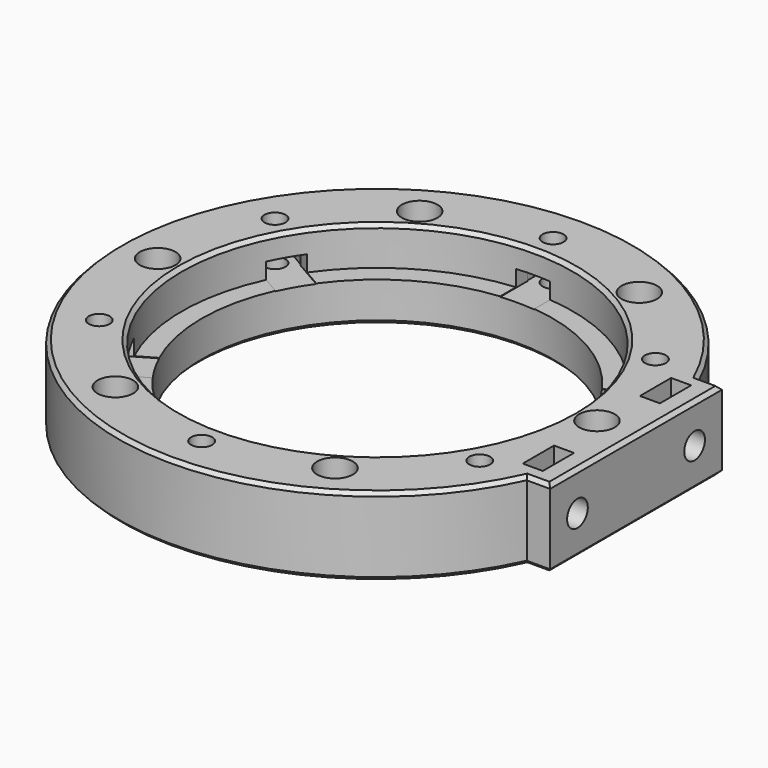
from build123d import *

# Parameters (mm, degrees)
CYLINDER014005872_R                            = 40.05
CYLINDER014005872_DEPTH                        = 16
CYLINDER014005874_R                            = 3.65
CYLINDER014005874_DEPTH                        = 4
CYLINDER014005873_R                            = 2.15
CYLINDER014005873_DEPTH                        = 24
FUSION001089102007007003001_PLACEMENT_ANGLE    = 60
FUSION001089102007007003002_PLACEMENT_ANGLE    = 120
FUSION001089102007007003003_PLACEMENT_ANGLE    = 180
FUSION001089102007007003004_PLACEMENT_ANGLE    = 240
FUSION001089102007007003005_PLACEMENT_ANGLE    = 60
BOX002_W                                       = 7
BOX002_H                                       = 10
BOX002_DEPTH                                   = 3.4
PRISM003_DEPTH                                 = 3.4
CYLINDER014005875_R                            = 2.15
CYLINDER014005875_DEPTH                        = 16
FUSION001089102007007003008001_PLACEMENT_ANGLE = 60
FUSION001089102007007003008002_PLACEMENT_ANGLE = 120
FUSION001089102007007003008003_PLACEMENT_ANGLE = 180
FUSION001089102007007003008004_PLACEMENT_ANGLE = 240
FUSION001089102007007003008005_PLACEMENT_ANGLE = 60
BOX003_W                                       = 4.1
BOX003_H                                       = 8
BOX003_DEPTH                                   = 10
CYLINDER014005876_R                            = 2.65
CYLINDER014005876_DEPTH                        = 14
PRISM004_DEPTH                                 = 4.2
BOX004_W                                       = 4.1
BOX004_H                                       = 8
BOX004_DEPTH                                   = 10
CYLINDER014005877_R                            = 2.65
CYLINDER014005877_DEPTH                        = 14
PRISM005_DEPTH                                 = 4.2
CYLINDER014005871_R                            = 36
CYLINDER014005871_DEPTH                        = 16
BOX_W                                          = 10
BOX_H                                          = 44
BOX_DEPTH                                      = 16
CYLINDER014005870_R                            = 53
CYLINDER014005870_DEPTH                        = 16
CHAMFER012_SIZE                                = 0.75


with BuildPart() as obj1:
    # Cylinder014005872 → Cylinder014005872 (new body)
    with BuildSketch(Plane.XY.offset(0.1)):
        Circle(CYLINDER014005872_R)
    extrude(amount=CYLINDER014005872_DEPTH)


with BuildPart() as obj2:
    # Cylinder014005874 → Cylinder014005874 (new body)
    with BuildSketch(Plane(origin=(45, 0, 4), x_dir=(1, 0, 0), z_dir=(0, 0, 1))):
        Circle(CYLINDER014005874_R)
    extrude(amount=CYLINDER014005874_DEPTH)


with BuildPart() as obj3:
    # Cylinder014005873 → Cylinder014005873 (new body)
    with BuildSketch(Plane(origin=(45, 0, -16), x_dir=(1, 0, 0), z_dir=(0, 0, 1))):
        Circle(CYLINDER014005873_R)
    extrude(amount=CYLINDER014005873_DEPTH)

    # Fusion001089102007007003: union obj2
    add(obj2.part)


with BuildPart() as obj4:
    # Fusion001089102007007003001 base: copy of obj3
    add(obj3.part)


with BuildPart() as obj4_1:
    # Fusion001089102007007003001 placement: moved
    add(obj4.part.rotate(Axis((0, 0, 0), (0, 0, 1)), FUSION001089102007007003001_PLACEMENT_ANGLE))


with BuildPart() as obj5:
    # Fusion001089102007007003002 base: copy of obj3
    add(obj3.part)


with BuildPart() as obj5_1:
    # Fusion001089102007007003002 placement: moved
    add(obj5.part.rotate(Axis((0, 0, 0), (0, 0, 1)), FUSION001089102007007003002_PLACEMENT_ANGLE))


with BuildPart() as obj6:
    # Fusion001089102007007003003 base: copy of obj3
    add(obj3.part)


with BuildPart() as obj6_1:
    # Fusion001089102007007003003 placement: moved
    add(obj6.part.rotate(Axis((0, 0, 0), (0, 0, 1)), FUSION001089102007007003003_PLACEMENT_ANGLE))


with BuildPart() as obj7:
    # Fusion001089102007007003004 base: copy of obj3
    add(obj3.part)


with BuildPart() as obj7_1:
    # Fusion001089102007007003004 placement: moved
    add(obj7.part.rotate(Axis((0, 0, 0), (0, 0, 1)), FUSION001089102007007003004_PLACEMENT_ANGLE))


with BuildPart() as obj8:
    # Fusion001089102007007003005 base: copy of obj3
    add(obj3.part)


with BuildPart() as obj8_1:
    # Fusion001089102007007003005 placement: moved
    add(obj8.part.rotate(Axis((0, 0, 0), (0, 0, -1)), FUSION001089102007007003005_PLACEMENT_ANGLE))


with BuildPart() as fusion001089102007007003006:
    # Fusion001089102007007003006 base: copy of obj3
    add(obj3.part)

    # Fusion001089102007007003006: union obj4, obj5, obj6, obj7, obj8
    add(obj4_1.part)
    add(obj5_1.part)
    add(obj6_1.part)
    add(obj7_1.part)
    add(obj8_1.part)


with BuildPart() as krychle002:
    # Box002 → Box002 (new body)
    with BuildSketch(Plane(origin=(-3.5, 0, 0), x_dir=(1, 0, 0), z_dir=(0, 0, 1))):
        with Locations((3.5, 5)):
            Rectangle(BOX002_W, BOX002_H)
    extrude(amount=BOX002_DEPTH)


with BuildPart() as m4x003:
    # prism003 → prism003 (new body)
    with BuildSketch(Plane(origin=(0, 0, 0), x_dir=(0, 1, 0), z_dir=(0, 0, 1))):
        Polygon((4.21, 0), (2.105, 3.645967), (-2.105, 3.645967), (-4.21, 0), (-2.105, -3.645967), (2.105, -3.645967), align=None)
    extrude(amount=PRISM003_DEPTH)


with BuildPart() as m4nut:
    # Cylinder014005875 → Cylinder014005875 (new body)
    with BuildSketch(Plane.XY.offset(-8)):
        Circle(CYLINDER014005875_R)
    extrude(amount=CYLINDER014005875_DEPTH)

    # Fusion001089102007007003008: union Krychle002, M4X003
    add(krychle002.part)
    add(m4x003.part)


with BuildPart() as m4nut_1:
    # Fusion001089102007007003008 placement: moved
    add(m4nut.part.moved(Location((0, -45, 0))))


with BuildPart() as m4nut001:
    # Fusion001089102007007003008001 base: copy of M4nut
    add(m4nut_1.part)


with BuildPart() as m4nut001_1:
    # Fusion001089102007007003008001 placement: moved
    add(m4nut001.part.rotate(Axis((0, 0, 0), (0, 0, 1)), FUSION001089102007007003008001_PLACEMENT_ANGLE))


with BuildPart() as m4nut002:
    # Fusion001089102007007003008002 base: copy of M4nut
    add(m4nut_1.part)


with BuildPart() as m4nut002_1:
    # Fusion001089102007007003008002 placement: moved
    add(m4nut002.part.rotate(Axis((0, 0, 0), (0, 0, 1)), FUSION001089102007007003008002_PLACEMENT_ANGLE))


with BuildPart() as m4nut003:
    # Fusion001089102007007003008003 base: copy of M4nut
    add(m4nut_1.part)


with BuildPart() as m4nut003_1:
    # Fusion001089102007007003008003 placement: moved
    add(m4nut003.part.rotate(Axis((0, 0, 0), (0, 0, 1)), FUSION001089102007007003008003_PLACEMENT_ANGLE))


with BuildPart() as m4nut004:
    # Fusion001089102007007003008004 base: copy of M4nut
    add(m4nut_1.part)


with BuildPart() as m4nut004_1:
    # Fusion001089102007007003008004 placement: moved
    add(m4nut004.part.rotate(Axis((0, 0, 0), (0, 0, 1)), FUSION001089102007007003008004_PLACEMENT_ANGLE))


with BuildPart() as m4nut005:
    # Fusion001089102007007003008005 base: copy of M4nut
    add(m4nut_1.part)


with BuildPart() as m4nut005_1:
    # Fusion001089102007007003008005 placement: moved
    add(m4nut005.part.rotate(Axis((0, 0, 0), (0, 0, -1)), FUSION001089102007007003008005_PLACEMENT_ANGLE))


with BuildPart() as fusion001089102007007003008006:
    # Fusion001089102007007003008006 base: copy of M4nut
    add(m4nut_1.part)

    # Fusion001089102007007003008006: union M4nut001, M4nut002, M4nut003, M4nut004, M4nut005
    add(m4nut001_1.part)
    add(m4nut002_1.part)
    add(m4nut003_1.part)
    add(m4nut004_1.part)
    add(m4nut005_1.part)


with BuildPart() as krychle003:
    # Box003 → Box003 (new body)
    with BuildSketch(Plane(origin=(0, -4, 0), x_dir=(1, 0, 0), z_dir=(0, 0, 1))):
        with Locations((2.05, 4)):
            Rectangle(BOX003_W, BOX003_H)
    extrude(amount=BOX003_DEPTH)


with BuildPart() as obj9:
    # Cylinder014005876 → Cylinder014005876 (new body)
    with BuildSketch(Plane(origin=(-4, 0, 0), x_dir=(0, 0, -1), z_dir=(1, 0, 0))):
        Circle(CYLINDER014005876_R)
    extrude(amount=CYLINDER014005876_DEPTH)


with BuildPart() as m5:
    # prism004 → prism004 (new body)
    with BuildSketch(Plane(origin=(0, 0, 0), x_dir=(0, 0, -1), z_dir=(1, 0, 0))):
        Polygon((4.6, 0), (2.3, 3.983717), (-2.3, 3.983717), (-4.6, 0), (-2.3, -3.983717), (2.3, -3.983717), align=None)
    extrude(amount=PRISM004_DEPTH)

    # Fusion001089102007007003008007: union Krychle003, obj9
    add(krychle003.part)
    add(obj9.part)


with BuildPart() as m5_1:
    # Fusion001089102007007003008007 placement: moved
    add(m5.part.moved(Location((45, 15, 0))))


with BuildPart() as krychle004:
    # Box004 → Box004 (new body)
    with BuildSketch(Plane(origin=(0, -4, 0), x_dir=(1, 0, 0), z_dir=(0, 0, 1))):
        with Locations((2.05, 4)):
            Rectangle(BOX004_W, BOX004_H)
    extrude(amount=BOX004_DEPTH)


with BuildPart() as obj10:
    # Cylinder014005877 → Cylinder014005877 (new body)
    with BuildSketch(Plane(origin=(-4, 0, 0), x_dir=(0, 0, -1), z_dir=(1, 0, 0))):
        Circle(CYLINDER014005877_R)
    extrude(amount=CYLINDER014005877_DEPTH)


with BuildPart() as m006:
    # prism005 → prism005 (new body)
    with BuildSketch(Plane(origin=(0, 0, 0), x_dir=(0, 0, -1), z_dir=(1, 0, 0))):
        Polygon((4.6, 0), (2.3, 3.983717), (-2.3, 3.983717), (-4.6, 0), (-2.3, -3.983717), (2.3, -3.983717), align=None)
    extrude(amount=PRISM005_DEPTH)

    # Fusion001089102007007003008008: union Krychle004, obj10
    add(krychle004.part)
    add(obj10.part)


with BuildPart() as m006_1:
    # Fusion001089102007007003008008 placement: moved
    add(m006.part.moved(Location((45, -15, 0))))


with BuildPart() as fusion001089102007007002:
    # Cylinder014005871 → Cylinder014005871 (new body)
    with BuildSketch(Plane.XY.offset(-8)):
        Circle(CYLINDER014005871_R)
    extrude(amount=CYLINDER014005871_DEPTH)

    # Fusion001089102007007002: union obj1, Fusion001089102007007003006, Fusion001089102007007003008006, M5, M006
    add(obj1.part)
    add(fusion001089102007007003006.part)
    add(fusion001089102007007003008006.part)
    add(m5_1.part)
    add(m006_1.part)


with BuildPart() as krychle:
    # Box → Box (new body)
    with BuildSketch(Plane(origin=(43, -22, -8), x_dir=(1, 0, 0), z_dir=(0, 0, 1))):
        with Locations((5, 22)):
            Rectangle(BOX_W, BOX_H)
    extrude(amount=BOX_DEPTH)


with BuildPart() as obj11:
    # Cylinder014005870 → Cylinder014005870 (new body)
    with BuildSketch(Plane.XY.offset(-8)):
        Circle(CYLINDER014005870_R)
    extrude(amount=CYLINDER014005870_DEPTH)

    # Fusion001089102007007003007: union Krychle
    add(krychle.part)

    # Cut009003003009003: cut Fusion001089102007007002
    add(fusion001089102007007002.part, mode=Mode.SUBTRACT)

    # Chamfer012
    chamfer012_edges = [obj11.edges().sort_by_distance(p)[0] for p in [
        (-53, 0, 8),
        (-53, 0, -8),
        (50.609127, 22, -8),
        (50.609127, 22, 8),
        (50.609127, -22, -8),
        (50.609127, -22, 8),
        (53, 0, -8),
        (-36, 0, -8),
        (-40.05, 0, 8),
        (53, 0, 8),
    ]]
    chamfer(chamfer012_edges, length=CHAMFER012_SIZE)


solid = obj11.part
